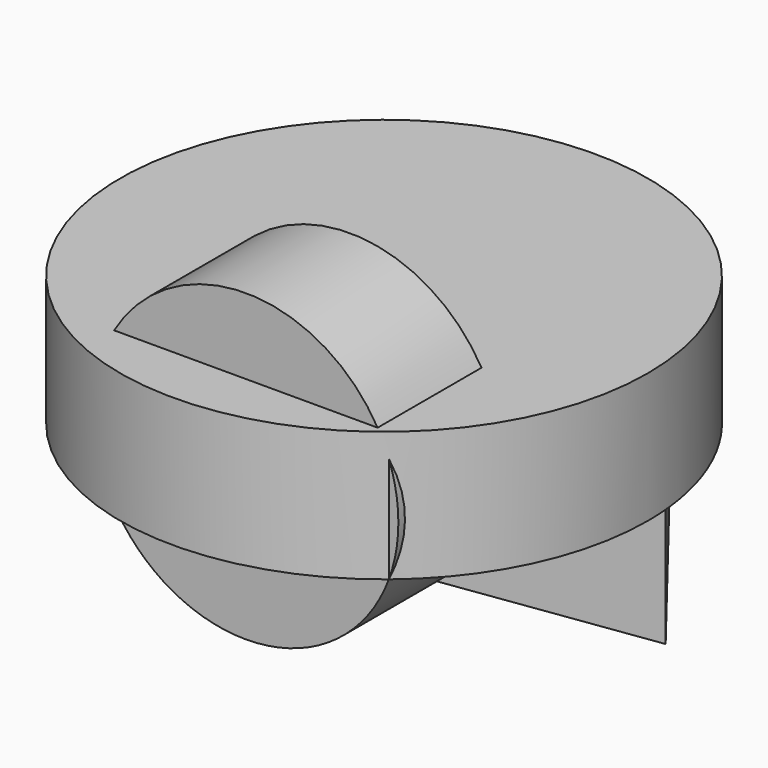
from build123d import *

# Parameters (mm, degrees)
F0_R     = 51.603139
F1_DEPTH = 25.4
F2_R     = 29.816703
F3_DEPTH = 25.4
F5_DEPTH = 25.4


with BuildPart() as f1:
    # F0 (on Top) → F1 (new body)
    with BuildSketch(Plane.XY):
        with Locations((-11.873323, 14.43688)):
            Circle(F0_R)
    extrude(amount=F1_DEPTH)

    # F2 (on Front) → F3 (join)
    with BuildSketch(Plane.XZ):
        with Locations((-7.016055, 10.389157)):
            Circle(F2_R)
    extrude(amount=F3_DEPTH)

    # F4 (on face) → F5 (join)
    with BuildSketch(Plane(origin=(0, 0, 0), x_dir=(1, 0, 0), z_dir=(0, 0, -1))):
        Polygon((-42.001548, -36.874084), (-48.667458, -18.444801), (-68.254628, -19.089496), (-73.694254, -37.917224), (-57.468958, -48.908703), align=None)
        Polygon((5.040846, -63.135175), (36.823419, -22.406714), (-14.339749, -15.246429), align=None)
        Polygon((1.471444, -22.344262), (9.61187, -21.770288), (12.673282, -29.334925), (6.424912, -34.584102), (-0.498204, -30.263635), align=None, mode=Mode.SUBTRACT)
    extrude(amount=F5_DEPTH)


solid = f1.part
